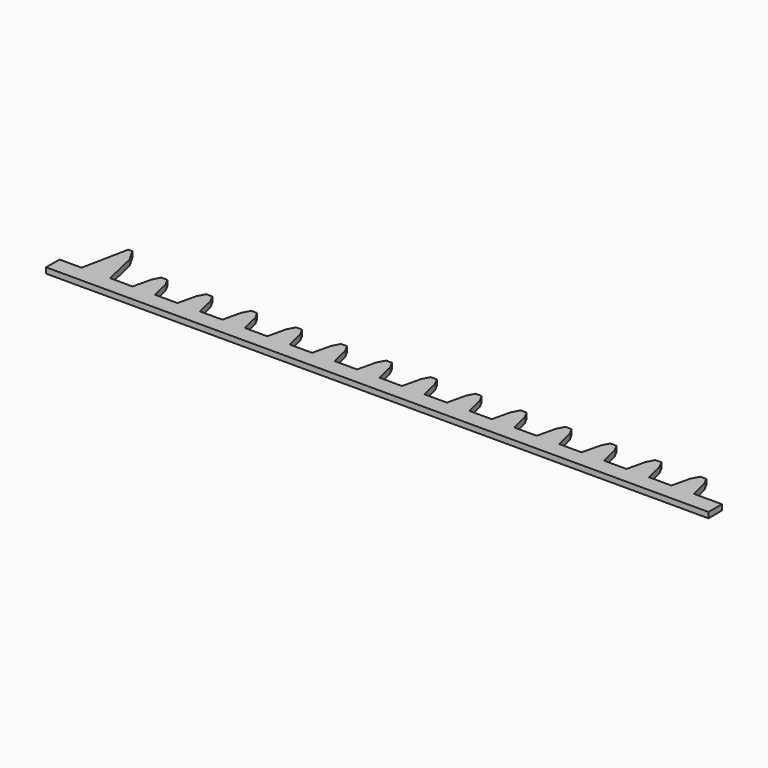
from build123d import *

# Parameters (mm, degrees)
F0_W     = 750
F0_H     = 50
F1_DEPTH = 20
F2_W     = 50
F2_H     = 660
F3_DEPTH = 10
F5_DEPTH = 5
F9_DEPTH = 5


with BuildPart() as f1:
    # F0 (on Top) → F1 (new body)
    with BuildSketch(Plane.XY):
        with Locations((0, -305)):
            Rectangle(F0_W, F0_H)
    extrude(amount=F1_DEPTH)


with BuildPart() as f1b:
    # F0 (on Top) → F1, piece 2 (new body)
    with BuildSketch(Plane.XY):
        with Locations((0, 305)):
            Rectangle(F0_W, F0_H)
    extrude(amount=F1_DEPTH)


with BuildPart() as f3:
    # F2 (on face) → F3 (new body)
    with BuildSketch(Plane.XY.offset(20)):
        with Locations((-337.1062517166, 0)):
            Rectangle(F2_W, F2_H)
    extrude(amount=F3_DEPTH)


with BuildPart() as f3b:
    # F2 (on face) → F3, piece 2 (new body)
    with BuildSketch(Plane.XY.offset(20)):
        with Locations((337.1062517166, 0)):
            Rectangle(F2_W, F2_H)
    extrude(amount=F3_DEPTH)


with BuildPart() as f3c:
    # F2 (on face) → F3, piece 3 (new body)
    with BuildSketch(Plane.XY.offset(20)):
        with Locations((-130.3327232599, 0)):
            Rectangle(F2_W, F2_H)
    extrude(amount=F3_DEPTH)


with BuildPart() as f3d:
    # F2 (on face) → F3, piece 4 (new body)
    with BuildSketch(Plane.XY.offset(20)):
        with Locations((130.3327232599, 0)):
            Rectangle(F2_W, F2_H)
    extrude(amount=F3_DEPTH)


with BuildPart() as f5:
    # F4 (on face) → F5 (new body)
    with BuildSketch(Plane.XY.offset(20)):
        Polygon((-296.1573302746, -263.5724842548), (-300, -280), (-280, -280), (-283.8426697254, -263.5724842548), (-287.3255479336, -257.0246756077), (-290, -257.0246756077), (-292.6744520664, -257.0246756077), align=None)
        Polygon((-280, -280), (-300, -280), (-325, -280), (-325, -295), (265, -295), (265, -280), (240, -280), (220, -280), (200, -280), (180, -280), (160, -280), (140, -280), (120, -280), (100, -280), (80, -280), (60, -280), (40, -280), (20, -280), (0, -280), (-20, -280), (-40, -280), (-60, -280), (-80, -280), (-100, -280), (-120, -280), (-140, -280), (-160, -280), (-180, -280), (-200, -280), (-220, -280), (-240, -280), (-260, -280), align=None)
        Polygon((-256.1573302746, -263.5724842548), (-260, -280), (-240, -280), (-243.8426697254, -263.5724842548), (-247.3255479336, -257.0246756077), (-250, -257.0246756077), (-252.6744520664, -257.0246756077), align=None)
        Polygon((-216.1573302746, -263.5724842548), (-220, -280), (-200, -280), (-203.8426697254, -263.5724842548), (-207.3255479336, -257.0246756077), (-210, -257.0246756077), (-212.6744520664, -257.0246756077), align=None)
        Polygon((220, -280), (240, -280), (236.1573302746, -263.5724842548), (232.6744520664, -257.0246756077), (230, -257.0246756077), (227.3255479336, -257.0246756077), (223.8426697254, -263.5724842548), align=None)
        Polygon((-176.1573302746, -263.5724842548), (-180, -280), (-160, -280), (-163.8426697254, -263.5724842548), (-167.3255479336, -257.0246756077), (-170, -257.0246756077), (-172.6744520664, -257.0246756077), align=None)
        Polygon((180, -280), (200, -280), (196.1573302746, -263.5724842548), (192.6744520664, -257.0246756077), (190, -257.0246756077), (187.3255479336, -257.0246756077), (183.8426697254, -263.5724842548), align=None)
        Polygon((-136.1573302746, -263.5724842548), (-140, -280), (-120, -280), (-123.8426697254, -263.5724842548), (-127.3255479336, -257.0246756077), (-130, -257.0246756077), (-132.6744520664, -257.0246756077), align=None)
        Polygon((140, -280), (160, -280), (156.1573302746, -263.5724842548), (152.6744520664, -257.0246756077), (150, -257.0246756077), (147.3255479336, -257.0246756077), (143.8426697254, -263.5724842548), align=None)
        Polygon((-96.1573302746, -263.5724842548), (-100, -280), (-80, -280), (-83.8426697254, -263.5724842548), (-87.3255479336, -257.0246756077), (-90, -257.0246756077), (-92.6744520664, -257.0246756077), align=None)
        Polygon((100, -280), (120, -280), (116.1573302746, -263.5724842548), (112.6744520664, -257.0246756077), (110, -257.0246756077), (107.3255479336, -257.0246756077), (103.8426697254, -263.5724842548), align=None)
        Polygon((-56.1573302746, -263.5724842548), (-60, -280), (-40, -280), (-43.8426697254, -263.5724842548), (-47.3255479336, -257.0246756077), (-50, -257.0246756077), (-52.6744520664, -257.0246756077), align=None)
        Polygon((60, -280), (80, -280), (76.1573302746, -263.5724842548), (72.6744520664, -257.0246756077), (70, -257.0246756077), (67.3255479336, -257.0246756077), (63.8426697254, -263.5724842548), align=None)
        Polygon((-16.1573302746, -263.5724842548), (-20, -280), (0, -280), (-3.8426697254, -263.5724842548), (-7.3255479336, -257.0246756077), (-10, -257.0246756077), (-12.6744520664, -257.0246756077), align=None)
        Polygon((20, -280), (40, -280), (36.1573302746, -263.5724842548), (32.6744520664, -257.0246756077), (30, -257.0246756077), (27.3255479336, -257.0246756077), (23.8426697254, -263.5724842548), align=None)
    extrude(amount=-F5_DEPTH)

    # F8 (on face) → F9 (join)
    with BuildSketch(Plane.XY.offset(20)):
        Polygon((-280, -280), (-286.9936227798, -249.4549155235), (-293.270021677, -238.5834902525), (-296.9827055931, -238.5834902525), (-305.3558170795, -280), align=None)
    extrude(amount=-F9_DEPTH)


with BuildPart() as f5b:
    # F4 (on face) → F5, piece 2 (new body)
    with BuildSketch(Plane.XY.offset(20)):
        Polygon((-280, 280), (-300, 280), (-296.1573302746, 263.5724842548), (-292.6744520664, 257.0246756077), (-290, 257.0246756077), (-287.3255479336, 257.0246756077), (-283.8426697254, 263.5724842548), align=None)
        Polygon((-325, 280), (-300, 280), (-280, 280), (-260, 280), (-240, 280), (-220, 280), (-200, 280), (-180, 280), (-160, 280), (-140, 280), (-120, 280), (-100, 280), (-80, 280), (-60, 280), (-40, 280), (-20, 280), (0, 280), (20, 280), (40, 280), (60, 280), (80, 280), (100, 280), (120, 280), (140, 280), (160, 280), (180, 280), (200, 280), (220, 280), (240, 280), (265, 280), (265, 305), (-325, 305), align=None)
        Polygon((-240, 280), (-260, 280), (-256.1573302746, 263.5724842548), (-252.6744520664, 257.0246756077), (-250, 257.0246756077), (-247.3255479336, 257.0246756077), (-243.8426697254, 263.5724842548), align=None)
        Polygon((-200, 280), (-220, 280), (-216.1573302746, 263.5724842548), (-212.6744520664, 257.0246756077), (-210, 257.0246756077), (-207.3255479336, 257.0246756077), (-203.8426697254, 263.5724842548), align=None)
        Polygon((236.1573302746, 263.5724842548), (240, 280), (220, 280), (223.8426697254, 263.5724842548), (227.3255479336, 257.0246756077), (230, 257.0246756077), (232.6744520664, 257.0246756077), align=None)
        Polygon((-160, 280), (-180, 280), (-176.1573302746, 263.5724842548), (-172.6744520664, 257.0246756077), (-170, 257.0246756077), (-167.3255479336, 257.0246756077), (-163.8426697254, 263.5724842548), align=None)
        Polygon((196.1573302746, 263.5724842548), (200, 280), (180, 280), (183.8426697254, 263.5724842548), (187.3255479336, 257.0246756077), (190, 257.0246756077), (192.6744520664, 257.0246756077), align=None)
        Polygon((-120, 280), (-140, 280), (-136.1573302746, 263.5724842548), (-132.6744520664, 257.0246756077), (-130, 257.0246756077), (-127.3255479336, 257.0246756077), (-123.8426697254, 263.5724842548), align=None)
        Polygon((156.1573302746, 263.5724842548), (160, 280), (140, 280), (143.8426697254, 263.5724842548), (147.3255479336, 257.0246756077), (150, 257.0246756077), (152.6744520664, 257.0246756077), align=None)
        Polygon((-80, 280), (-100, 280), (-96.1573302746, 263.5724842548), (-92.6744520664, 257.0246756077), (-90, 257.0246756077), (-87.3255479336, 257.0246756077), (-83.8426697254, 263.5724842548), align=None)
        Polygon((116.1573302746, 263.5724842548), (120, 280), (100, 280), (103.8426697254, 263.5724842548), (107.3255479336, 257.0246756077), (110, 257.0246756077), (112.6744520664, 257.0246756077), align=None)
        Polygon((-40, 280), (-60, 280), (-56.1573302746, 263.5724842548), (-52.6744520664, 257.0246756077), (-50, 257.0246756077), (-47.3255479336, 257.0246756077), (-43.8426697254, 263.5724842548), align=None)
        Polygon((76.1573302746, 263.5724842548), (80, 280), (60, 280), (63.8426697254, 263.5724842548), (67.3255479336, 257.0246756077), (70, 257.0246756077), (72.6744520664, 257.0246756077), align=None)
        Polygon((0, 280), (-20, 280), (-16.1573302746, 263.5724842548), (-12.6744520664, 257.0246756077), (-10, 257.0246756077), (-7.3255479336, 257.0246756077), (-3.8426697254, 263.5724842548), align=None)
        Polygon((36.1573302746, 263.5724842548), (40, 280), (20, 280), (23.8426697254, 263.5724842548), (27.3255479336, 257.0246756077), (30, 257.0246756077), (32.6744520664, 257.0246756077), align=None)
    extrude(amount=-F5_DEPTH)


solid = f5.part
